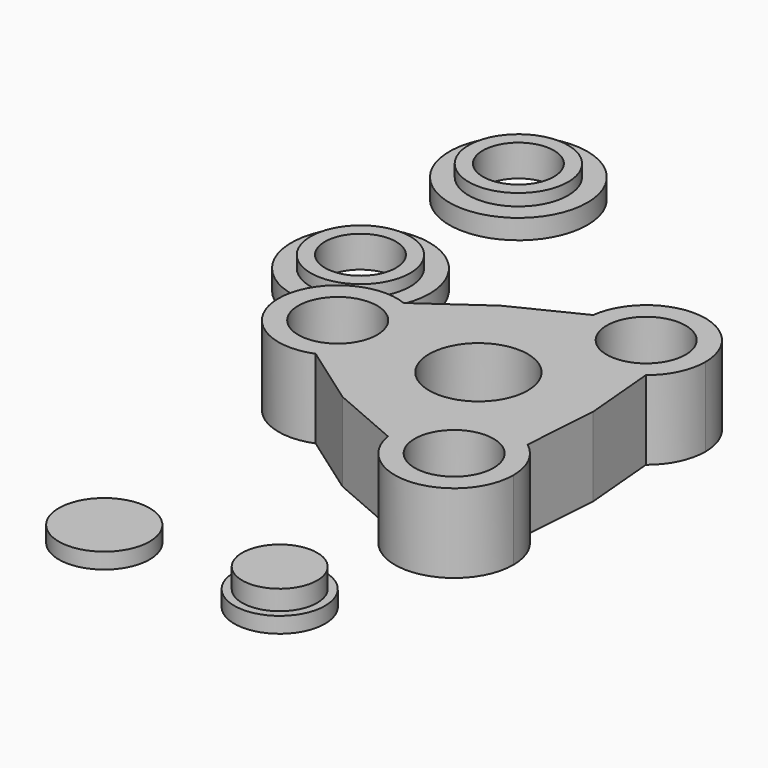
from build123d import *

# Parameters (mm, degrees)
F0_R      = 12.5
F1_DEPTH  = 20
F0_R_2    = 10
F2_DEPTH  = 20
F3_R      = 17.5
F3_R_2    = 12.6
F4_DEPTH  = 5
F3_R_3    = 9
F5_DEPTH  = 8
F7_R      = 9.5
F9_DEPTH  = 9
F7_R_2    = 11.5
F10_DEPTH = 4
F8_R      = 11.5
F11_DEPTH = 4


with BuildPart() as f1:
    # F0 (on Top) → F1 (new body)
    with BuildSketch(Plane.XY):
        Polygon((0.318691, -9.640985), (43.028794, 16.356074), (0.318691, 40.359015), align=None)
        with Locations((14.762942, 15.359015)):
            Circle(F0_R, mode=Mode.SUBTRACT)
        with BuildLine():
            Line((41.707853, -2.760066), (43.028794, 16.356074))
            Line((43.028794, 16.356074), (0.318691, -9.640985))
            Line((0.318691, -9.640985), (17.905715, -17.248103))
            ThreePointArc((17.905715, -17.248103), (24.897378, -1.938508), (41.707853, -2.760066))
        make_face()
        with BuildLine():
            Line((-15.323544, 1.426634), (0.318691, -9.640985))
            Line((0.318691, -9.640985), (0.318691, 40.359015))
            Line((0.318691, 40.359015), (-15.323544, 29.291396))
            ThreePointArc((-15.323544, 29.291396), (-8.464255, 23.774285), (-5.881309, 15.359015))
            ThreePointArc((-5.881309, 15.359015), (-8.464255, 6.943746), (-15.323544, 1.426634))
        make_face()
        with BuildLine():
            Line((0.318691, 40.359015), (43.028794, 16.356074))
            Line((43.028794, 16.356074), (41.380838, 35.086216))
            ThreePointArc((41.380838, 35.086216), (24.711296, 33.762474), (17.174858, 48.689899))
            Line((17.174858, 48.689899), (0.318691, 40.359015))
        make_face()
    extrude(amount=F1_DEPTH)

    # F0 (on Top) → F2 (join)
    with BuildSketch(Plane.XY):
        with BuildLine():
            ThreePointArc((-15.323544, 29.291396), (-35.881309, 15.359015), (-15.323544, 1.426634))
            ThreePointArc((-15.323544, 1.426634), (-8.464255, 6.943746), (-5.881309, 15.359015))
            ThreePointArc((-5.881309, 15.359015), (-8.464255, 23.774285), (-15.323544, 29.291396))
        make_face()
        with Locations((-20.881309, 15.359015)):
            Circle(F0_R_2, mode=Mode.SUBTRACT)
        with BuildLine():
            ThreePointArc((17.174858, 48.689899), (24.711296, 33.762474), (41.380838, 35.086216))
            ThreePointArc((41.380838, 35.086216), (45.565943, 40.312408), (47.060216, 46.838918))
            ThreePointArc((47.060216, 46.838918), (32.98748, 61.81023), (17.174858, 48.689899))
        make_face()
        with Locations((32.060216, 46.838918)):
            Circle(F0_R_2, mode=Mode.SUBTRACT)
        with BuildLine():
            ThreePointArc((47.696495, -14.75154), (46.116077, -8.049688), (41.707853, -2.760066))
            ThreePointArc((41.707853, -2.760066), (24.897378, -1.938508), (17.905715, -17.248103))
            ThreePointArc((17.905715, -17.248103), (33.949153, -29.699143), (47.696495, -14.75154))
        make_face()
        with Locations((32.696495, -14.75154)):
            Circle(F0_R_2, mode=Mode.SUBTRACT)
    extrude(amount=F2_DEPTH)


with BuildPart() as f4:
    # F3 (on Top) → F4 (new body)
    with BuildSketch(Plane.XY):
        with Locations((-49.300104, 58.086261)):
            Circle(F3_R)
        with Locations((-49.300104, 58.086261)):
            Circle(F3_R_2, mode=Mode.SUBTRACT)
    extrude(amount=F4_DEPTH)

    # F3 (on Top) → F5 (join)
    with BuildSketch(Plane.XY):
        with Locations((-49.300104, 58.086261)):
            Circle(F3_R_2)
        with Locations((-49.300104, 58.086261)):
            Circle(F3_R_3, mode=Mode.SUBTRACT)
    extrude(amount=F5_DEPTH)


with BuildPart() as f6_1:
    # F6: copy of F4
    add(f4.part.moved(Location((0, 50, 0))))


with BuildPart() as f9:
    # F7 (on Top) → F9 (new body)
    with BuildSketch(Plane.XY):
        with Locations((22.868851, -57.693698)):
            Circle(F7_R)
    extrude(amount=F9_DEPTH)

    # F7 (on Top) → F10 (join)
    with BuildSketch(Plane.XY):
        with Locations((22.868851, -57.693698)):
            Circle(F7_R_2)
        with Locations((22.868851, -57.693698)):
            Circle(F7_R, mode=Mode.SUBTRACT)
    extrude(amount=F10_DEPTH)


with BuildPart() as f11:
    # F8 (on Top) → F11 (new body)
    with BuildSketch(Plane.XY):
        with Locations((-21.408733, -57.903964)):
            Circle(F8_R)
    extrude(amount=F11_DEPTH)


solid = Compound([f1.part, f4.part, f6_1.part, f9.part, f11.part])
